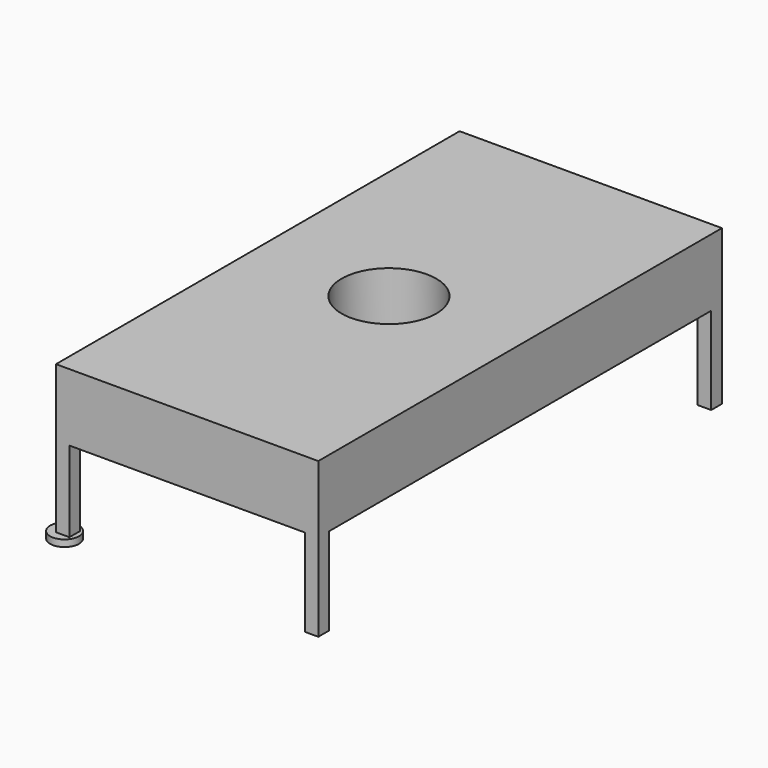
from build123d import *

# Parameters (mm, degrees)
F0_W     = 990.6
F0_H     = 1905
F1_DEPTH = 254
F2_W     = 50.8
F2_H     = 50.8
F3_DEPTH = 330.2
F6_R     = 178.695412
F7_DEPTH = 584.201
F8_R     = 54.530452
F9_DEPTH = 25.4


with BuildPart() as f1:
    # F0 (on Top) → F1 (new body)
    with BuildSketch(Plane.XY):
        Rectangle(F0_W, F0_H)
    extrude(amount=F1_DEPTH)

    # F2 (on face) → F3 (join)
    with BuildSketch(Plane(origin=(0, 0, 0), x_dir=(1, 0, 0), z_dir=(0, 0, -1))):
        with Locations((-469.9, 927.1)):
            Rectangle(F2_W, F2_H)
        with Locations((-469.9, 927.1)):
            Rectangle(F2_W, F2_H)
    extrude(amount=F3_DEPTH)

    # F4: F1 across plane


with BuildPart() as f1_1:
    add(f1.part)
    add(f1.part.mirror(Plane.YZ))

    # F5: F1 across plane


with BuildPart() as f1_2:
    add(f1_1.part)
    add(f1_1.part.mirror(Plane.XZ))

    # F6 (on face) → F7 (cut, through all)
    with BuildSketch(Plane.XY.offset(254)):
        Circle(F6_R)
    extrude(amount=-F7_DEPTH, mode=Mode.SUBTRACT)

    # F8 (on face) → F9 (join)
    with BuildSketch(Plane(origin=(0, 0, -330.2), x_dir=(1, 0, 0), z_dir=(0, 0, -1))):
        with Locations((-480.838805, 929.906964)):
            Circle(F8_R)
    extrude(amount=-F9_DEPTH)


solid = f1_2.part
